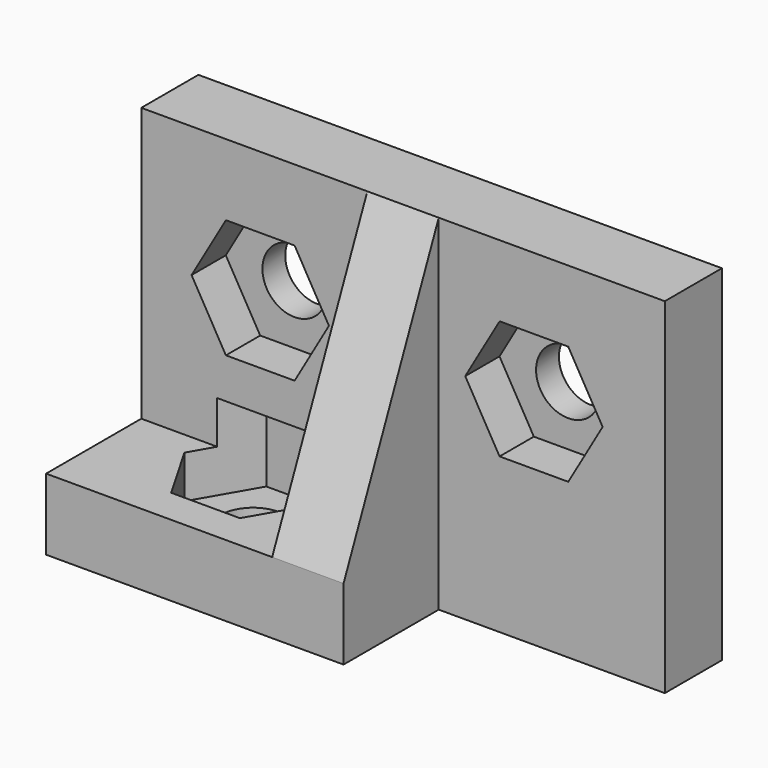
from build123d import *

# Parameters (mm, degrees)
EXTRUDE003_DEPTH  = 3.6
CYLINDER002_R     = 1.35
CYLINDER002_DEPTH = 3
EXTRUDE002_DEPTH  = 1.8
CYLINDER003_R     = 1.35
CYLINDER003_DEPTH = 30
EXTRUDE001_DEPTH  = 1.8
CYLINDER_R        = 1.35
CYLINDER_DEPTH    = 3
BOX_W             = 22
BOX_H             = 3
BOX_DEPTH         = 14.5
BOX001_W          = 12.5
BOX001_H          = 5
BOX001_DEPTH      = 3
EXTRUDE_DEPTH     = 3


with BuildPart() as extrude003:
    # Sketch003 → Extrude003 (new body)
    with BuildSketch(Plane.XY):
        Polygon((2.8868, 0), (1.4434, 2.500042), (-1.4434, 2.500042), (-2.8868, 0), (-1.4434, -2.500042), (1.4434, -2.500042), align=None)
    extrude(amount=EXTRUDE003_DEPTH)


with BuildPart() as extrude003_1:
    # Extrude003 placement: moved
    add(extrude003.part.moved(Location((5.5, -1, 1.2))))


with BuildPart() as hole03:
    # Cylinder002 → Cylinder002 (new body)
    with BuildSketch(Plane(origin=(5.5, -1, 0), x_dir=(0, 1, 0), z_dir=(0, 0, 1))):
        Circle(CYLINDER002_R)
    extrude(amount=CYLINDER002_DEPTH)

    # Fusion002: union Extrude003
    add(extrude003_1.part)


with BuildPart() as extrude002:
    # Sketch002 → Extrude002 (new body)
    with BuildSketch(Plane(origin=(16.5, 1.8, 9), x_dir=(1, 0, 0), z_dir=(0, -1, 0))):
        Polygon((2.8868, 0), (1.4434, 2.500042), (-1.4434, 2.500042), (-2.8868, 0), (-1.4434, -2.500042), (1.4434, -2.500042), align=None)
    extrude(amount=EXTRUDE002_DEPTH)


with BuildPart() as hole02:
    # Cylinder003 → Cylinder003 (new body)
    with BuildSketch(Plane(origin=(16.5, 3, 9), x_dir=(1, 0, 0), z_dir=(0, -1, 0))):
        Circle(CYLINDER003_R)
    extrude(amount=CYLINDER003_DEPTH)

    # Fusion001: union Extrude002
    add(extrude002.part)


with BuildPart() as extrude001:
    # Sketch001 → Extrude001 (new body)
    with BuildSketch(Plane(origin=(5, 1.8, 9), x_dir=(1, 0, 0), z_dir=(0, -1, 0))):
        Polygon((2.8868, 0), (1.4434, 2.500042), (-1.4434, 2.500042), (-2.8868, 0), (-1.4434, -2.500042), (1.4434, -2.500042), align=None)
    extrude(amount=EXTRUDE001_DEPTH)


with BuildPart() as hole01:
    # Cylinder → Cylinder (new body)
    with BuildSketch(Plane(origin=(5, 3, 9), x_dir=(1, 0, 0), z_dir=(0, -1, 0))):
        Circle(CYLINDER_R)
    extrude(amount=CYLINDER_DEPTH)

    # Fusion: union Extrude001
    add(extrude001.part)


with BuildPart() as cut001:
    # Box → Box (new body)
    with BuildSketch(Plane.XY):
        with Locations((11, 1.5)):
            Rectangle(BOX_W, BOX_H)
    extrude(amount=BOX_DEPTH)

    # Cut: cut Hole01
    add(hole01.part, mode=Mode.SUBTRACT)

    # Cut001: cut Hole02
    add(hole02.part, mode=Mode.SUBTRACT)


with BuildPart() as cut002:
    # Box001 → Box001 (new body)
    with BuildSketch(Plane(origin=(0, -5, 0), x_dir=(1, 0, 0), z_dir=(0, 0, 1))):
        with Locations((6.25, 2.5)):
            Rectangle(BOX001_W, BOX001_H)
    extrude(amount=BOX001_DEPTH)

    # Fusion003: union Cut001
    add(cut001.part)

    # Cut002: cut Hole03
    add(hole03.part, mode=Mode.SUBTRACT)


with BuildPart() as left_hand_bracket_0_5mm_offset:
    # Sketch → Extrude (new body)
    with BuildSketch(Plane(origin=(0, 0, 1.4), x_dir=(0, 1, 0), z_dir=(1, 0, 0))):
        Polygon((0, 11.5), (0, 0), (-5, 0), align=None)
    extrude(amount=EXTRUDE_DEPTH)


with BuildPart() as left_hand_bracket_0_5mm_offset_1:
    # Extrude placement: moved
    add(left_hand_bracket_0_5mm_offset.part.moved(Location((9.5, 0, 1.6))))

    # Fusion004: union Cut002
    add(cut002.part)


solid = left_hand_bracket_0_5mm_offset_1.part
